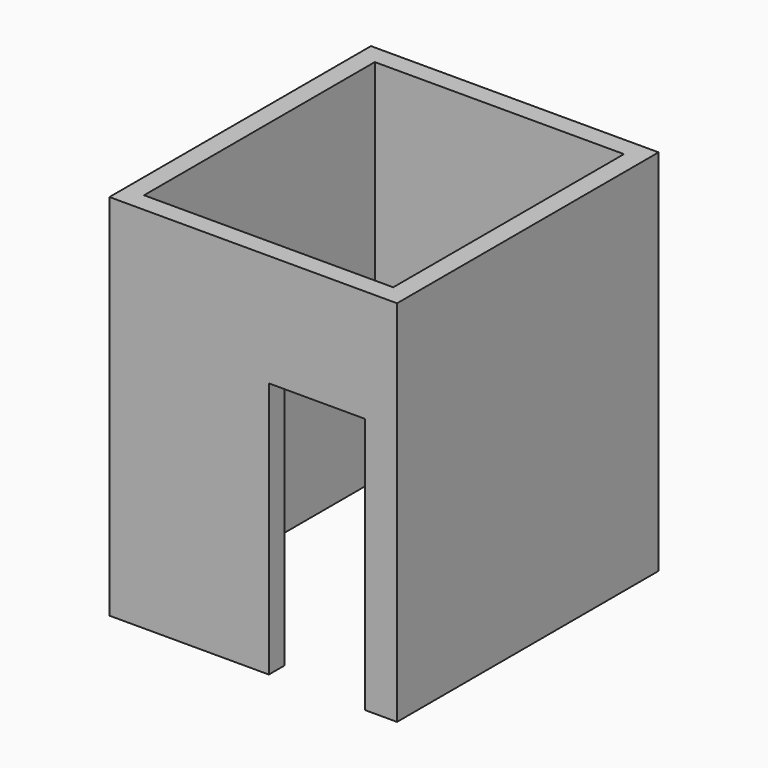
from build123d import *

# Parameters (mm, degrees)
F1_DEPTH = 2032
F2_W     = 2279.65
F2_H     = 2590.8
F2_W_2   = 1974.85
F2_H_2   = 2286
F3_DEPTH = 889


with BuildPart() as f1:
    # F0 (on Top) → F1 (new body)
    with BuildSketch(Plane.XY):
        Polygon((0, 2286), (0, 0), (-101.6, 0), (-101.6, -152.4), (152.4, -152.4), (152.4, 2438.4), (-2127.25, 2438.4), (-2127.25, -152.4), (-863.6, -152.4), (-863.6, 0), (-1974.85, 0), (-1974.85, 2286), align=None)
    extrude(amount=F1_DEPTH)

    # F2 (on face) → F3 (join)
    with BuildSketch(Plane.XY.offset(2032)):
        with Locations((-987.425, 1143)):
            Rectangle(F2_W, F2_H)
        with Locations((-987.425, 1143)):
            Rectangle(F2_W_2, F2_H_2, mode=Mode.SUBTRACT)
    extrude(amount=F3_DEPTH)


solid = f1.part
